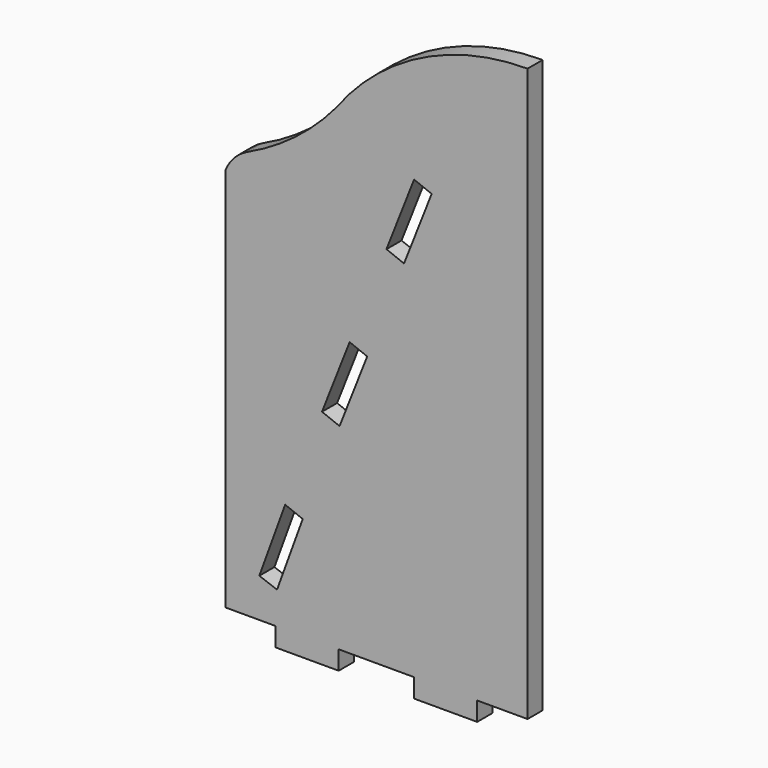
from build123d import *

# Parameters (mm, degrees)
F1_DEPTH = 19.05


with BuildPart() as f1:
    # F0 (on Front) → F1 (new body)
    with BuildSketch(Plane.XZ):
        with BuildLine():
            Line((-137.715965, -183.12481), (-137.715965, -331.7148))
            Line((-137.715965, -331.7148), (-86.915965, -331.7148))
            Line((-86.915965, -331.7148), (-86.915965, -350.7648))
            Line((-86.915965, -350.7648), (-23.415965, -350.7648))
            Line((-23.415965, -350.7648), (-23.415965, -331.7148))
            Line((-23.415965, -331.7148), (52.784035, -331.7148))
            Line((52.784035, -331.7148), (52.784035, -350.7648))
            Line((52.784035, -350.7648), (116.284035, -350.7648))
            Line((116.284035, -350.7648), (116.284035, -331.7148))
            Line((116.284035, -331.7148), (167.084035, -331.7148))
            Line((167.084035, -331.7148), (167.084035, 245.768648))
            ThreePointArc((167.084035, 245.768648), (59.016129, 220.056395), (-25.892278, 148.4299))
            ThreePointArc((-25.892278, 148.4299), (-67.164643, 109.001513), (-116.097022, 79.613962))
            ThreePointArc((-116.097022, 79.613962), (-129.108758, 69.921843), (-137.715965, 56.168355))
            Line((-137.715965, 56.168355), (-137.715965, -183.12481))
        make_face()
        Polygon((-85.55314, -298.979528), (-103.454284, -292.464044), (-77.392349, -220.859466), (-59.656096, -227.827985), align=None, mode=Mode.SUBTRACT)
        Polygon((-22.508237, -133.262681), (-40.238813, -126.296393), (-12.373661, -55.374088), (5.356915, -62.340376), align=None, mode=Mode.SUBTRACT)
        Polygon((42.510451, 32.222697), (24.779875, 39.188985), (52.645027, 110.111289), (70.375603, 103.145001), align=None, mode=Mode.SUBTRACT)
    extrude(amount=F1_DEPTH)


solid = f1.part
